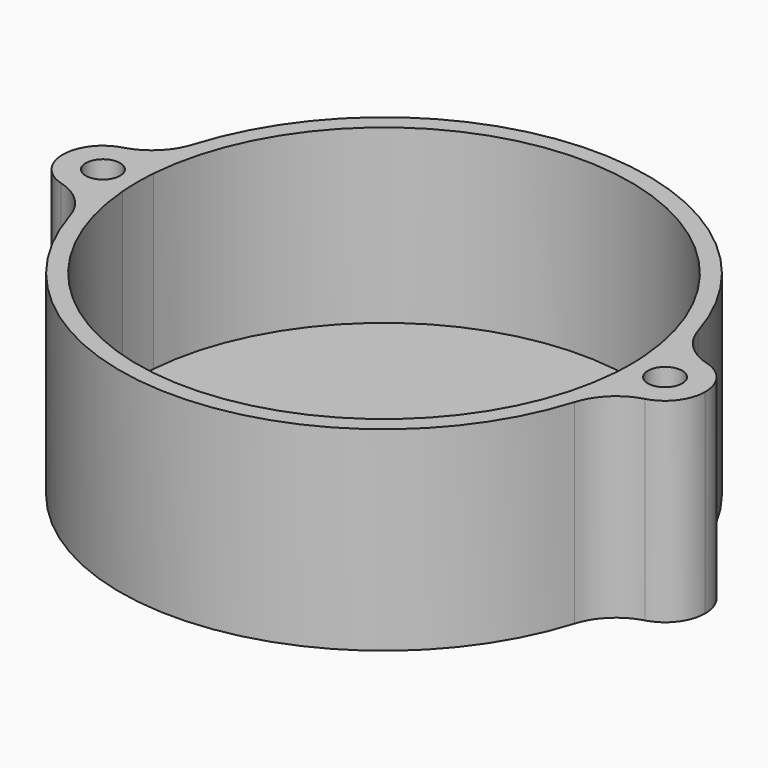
from build123d import *

# Parameters (mm, degrees)
F0_R     = 1.5
F1_DEPTH = 17
F2_DEPTH = 2
F3_R     = 5


with BuildPart() as f1:
    # F0 (on Top) → F1 (new body)
    with BuildSketch(Plane.XY):
        with BuildLine():
            ThreePointArc((21.4336734694, 1.6874956615), (21.4834119682, 0.8443993155), (21.5, 0))
            ThreePointArc((21.5, 0), (21.4834119682, -0.8443993155), (21.4336734694, -1.6874956615))
            ThreePointArc((21.4336734694, -1.6874956615), (22.0184319463, -2.4681612579), (22.7959183673, -3.0571401324))
            ThreePointArc((22.7959183673, -3.0571401324), (22.9489228772, -1.531972185), (23, 0))
            ThreePointArc((23, 0), (22.9489228772, 1.531972185), (22.7959183673, 3.0571401324))
            ThreePointArc((22.7959183673, 3.0571401324), (22.0184319463, 2.4681612579), (21.4336734694, 1.6874956615))
        make_face()
        with BuildLine():
            ThreePointArc((-21.4336734694, 1.6874956615), (0, 21.5), (21.4336734694, 1.6874956615))
            ThreePointArc((21.4336734694, 1.6874956615), (22.0184319463, 2.4681612579), (22.7959183673, 3.0571401324))
            ThreePointArc((22.7959183673, 3.0571401324), (0, 23), (-22.7959183673, 3.0571401324))
            ThreePointArc((-22.7959183673, 3.0571401324), (-22.0184319463, 2.4681612579), (-21.4336734694, 1.6874956615))
        make_face()
        with BuildLine():
            ThreePointArc((22.7959183673, -3.0571401324), (22.0184319463, -2.4681612579), (21.4336734694, -1.6874956615))
            ThreePointArc((21.4336734694, -1.6874956615), (0, -21.5), (-21.4336734694, -1.6874956615))
            ThreePointArc((-21.4336734694, -1.6874956615), (-22.0184319463, -2.4681612579), (-22.7959183673, -3.0571401324))
            ThreePointArc((-22.7959183673, -3.0571401324), (0, -23), (22.7959183673, -3.0571401324))
        make_face()
        with BuildLine():
            ThreePointArc((-21.4336734694, -1.6874956615), (-21.5, 0), (-21.4336734694, 1.6874956615))
            ThreePointArc((-21.4336734694, 1.6874956615), (-22.0184319463, 2.4681612579), (-22.7959183673, 3.0571401324))
            ThreePointArc((-22.7959183673, 3.0571401324), (-22.9489228772, 1.531972185), (-23, 0))
            ThreePointArc((-23, 0), (-22.9489228772, -1.531972185), (-22.7959183673, -3.0571401324))
            ThreePointArc((-22.7959183673, -3.0571401324), (-22.0184319463, -2.4681612579), (-21.4336734694, -1.6874956615))
        make_face()
        with BuildLine():
            ThreePointArc((28, 0), (26.2728105209, 3.0178043106), (22.7959183673, 3.0571401324))
            ThreePointArc((22.7959183673, 3.0571401324), (22.9489228772, 1.531972185), (23, 0))
            ThreePointArc((23, 0), (22.9489228772, -1.531972185), (22.7959183673, -3.0571401324))
            ThreePointArc((22.7959183673, -3.0571401324), (26.2728105209, -3.0178043106), (28, 0))
        make_face()
        with BuildLine():
            ThreePointArc((26, 0), (24.5, -1.5), (23, 0))
            ThreePointArc((23, 0), (24.5, 1.5), (26, 0))
        make_face(mode=Mode.SUBTRACT)
        with BuildLine():
            ThreePointArc((-23, 0), (-22.9489228772, 1.531972185), (-22.7959183673, 3.0571401324))
            ThreePointArc((-22.7959183673, 3.0571401324), (-28, 0), (-22.7959183673, -3.0571401324))
            ThreePointArc((-22.7959183673, -3.0571401324), (-22.9489228772, -1.531972185), (-23, 0))
        make_face()
        with Locations((-24.5, 0)):
            Circle(F0_R, mode=Mode.SUBTRACT)
    extrude(amount=F1_DEPTH)

    # F0 (on Top) → F2 (join)
    with BuildSketch(Plane.XY):
        with BuildLine():
            ThreePointArc((21.4336734694, 1.6874956615), (21.4834119682, 0.8443993155), (21.5, 0))
            ThreePointArc((21.5, 0), (21.4834119682, -0.8443993155), (21.4336734694, -1.6874956615))
            ThreePointArc((21.4336734694, -1.6874956615), (22.0184319463, -2.4681612579), (22.7959183673, -3.0571401324))
            ThreePointArc((22.7959183673, -3.0571401324), (22.9489228772, -1.531972185), (23, 0))
            ThreePointArc((23, 0), (22.9489228772, 1.531972185), (22.7959183673, 3.0571401324))
            ThreePointArc((22.7959183673, 3.0571401324), (22.0184319463, 2.4681612579), (21.4336734694, 1.6874956615))
        make_face()
        with BuildLine():
            ThreePointArc((-21.4336734694, 1.6874956615), (0, 21.5), (21.4336734694, 1.6874956615))
            ThreePointArc((21.4336734694, 1.6874956615), (22.0184319463, 2.4681612579), (22.7959183673, 3.0571401324))
            ThreePointArc((22.7959183673, 3.0571401324), (0, 23), (-22.7959183673, 3.0571401324))
            ThreePointArc((-22.7959183673, 3.0571401324), (-22.0184319463, 2.4681612579), (-21.4336734694, 1.6874956615))
        make_face()
        with BuildLine():
            ThreePointArc((22.7959183673, -3.0571401324), (22.0184319463, -2.4681612579), (21.4336734694, -1.6874956615))
            ThreePointArc((21.4336734694, -1.6874956615), (0, -21.5), (-21.4336734694, -1.6874956615))
            ThreePointArc((-21.4336734694, -1.6874956615), (-22.0184319463, -2.4681612579), (-22.7959183673, -3.0571401324))
            ThreePointArc((-22.7959183673, -3.0571401324), (0, -23), (22.7959183673, -3.0571401324))
        make_face()
        with BuildLine():
            ThreePointArc((-21.4336734694, -1.6874956615), (-21.5, 0), (-21.4336734694, 1.6874956615))
            ThreePointArc((-21.4336734694, 1.6874956615), (-22.0184319463, 2.4681612579), (-22.7959183673, 3.0571401324))
            ThreePointArc((-22.7959183673, 3.0571401324), (-22.9489228772, 1.531972185), (-23, 0))
            ThreePointArc((-23, 0), (-22.9489228772, -1.531972185), (-22.7959183673, -3.0571401324))
            ThreePointArc((-22.7959183673, -3.0571401324), (-22.0184319463, -2.4681612579), (-21.4336734694, -1.6874956615))
        make_face()
        with BuildLine():
            ThreePointArc((28, 0), (26.2728105209, 3.0178043106), (22.7959183673, 3.0571401324))
            ThreePointArc((22.7959183673, 3.0571401324), (22.9489228772, 1.531972185), (23, 0))
            ThreePointArc((23, 0), (22.9489228772, -1.531972185), (22.7959183673, -3.0571401324))
            ThreePointArc((22.7959183673, -3.0571401324), (26.2728105209, -3.0178043106), (28, 0))
        make_face()
        with BuildLine():
            ThreePointArc((26, 0), (24.5, -1.5), (23, 0))
            ThreePointArc((23, 0), (24.5, 1.5), (26, 0))
        make_face(mode=Mode.SUBTRACT)
        with BuildLine():
            ThreePointArc((-23, 0), (-22.9489228772, 1.531972185), (-22.7959183673, 3.0571401324))
            ThreePointArc((-22.7959183673, 3.0571401324), (-28, 0), (-22.7959183673, -3.0571401324))
            ThreePointArc((-22.7959183673, -3.0571401324), (-22.9489228772, -1.531972185), (-23, 0))
        make_face()
        with Locations((-24.5, 0)):
            Circle(F0_R, mode=Mode.SUBTRACT)
        with BuildLine():
            ThreePointArc((21.4336734694, -1.6874956615), (21, 0), (21.4336734694, 1.6874956615))
            ThreePointArc((21.4336734694, 1.6874956615), (0, 21.5), (-21.4336734694, 1.6874956615))
            ThreePointArc((-21.4336734694, 1.6874956615), (-21.1101517101, 0.8711650655), (-21, 0))
            ThreePointArc((-21, 0), (-21.1101517101, -0.8711650655), (-21.4336734694, -1.6874956615))
            ThreePointArc((-21.4336734694, -1.6874956615), (0, -21.5), (21.4336734694, -1.6874956615))
        make_face()
        with BuildLine():
            ThreePointArc((-21, 0), (-21.1101517101, 0.8711650655), (-21.4336734694, 1.6874956615))
            ThreePointArc((-21.4336734694, 1.6874956615), (-21.5, 0), (-21.4336734694, -1.6874956615))
            ThreePointArc((-21.4336734694, -1.6874956615), (-21.1101517101, -0.8711650655), (-21, 0))
        make_face()
        with BuildLine():
            ThreePointArc((21.4336734694, -1.6874956615), (21.4834119682, -0.8443993155), (21.5, 0))
            ThreePointArc((21.5, 0), (21.4834119682, 0.8443993155), (21.4336734694, 1.6874956615))
            ThreePointArc((21.4336734694, 1.6874956615), (21, 0), (21.4336734694, -1.6874956615))
        make_face()
        with Locations((-24.5, 0)):
            Circle(F0_R)
        with BuildLine():
            ThreePointArc((26, 0), (24.5, 1.5), (23, 0))
            ThreePointArc((23, 0), (24.5, -1.5), (26, 0))
        make_face()
    extrude(amount=F2_DEPTH)

    # F3
    f3_edges = [f1.edges().sort_by_distance(p)[0] for p in [
        (-22.795918, 3.05714, 8.5),
        (-22.795918, -3.05714, 8.5),
        (22.795918, -3.05714, 8.5),
        (22.795918, 3.05714, 8.5),
    ]]
    fillet(f3_edges, radius=F3_R)


solid = f1.part
